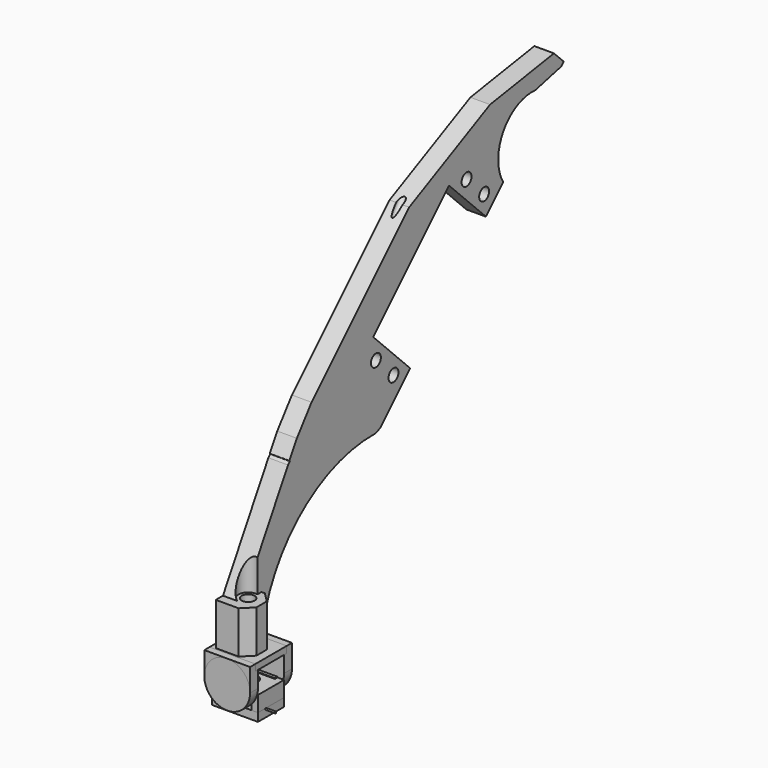
from build123d import *

# Parameters (mm, degrees)
CYLINDER002_R           = 0.25
CYLINDER002_DEPTH       = 10
CYLINDER002_PITCH_ANGLE = 90
CYLINDER001_R           = 0.25
CYLINDER001_DEPTH       = 10
CYLINDER001_PITCH_ANGLE = 90
BOX_W                   = 6.5
BOX_H                   = 4.8
BOX_DEPTH               = 1
BOX004_W                = 10
BOX004_H                = 3
BOX004_DEPTH            = 5
CYLINDER_R              = 1.5
CYLINDER_DEPTH          = 10
BOX005_W                = 21
BOX005_H                = 17
BOX005_DEPTH            = 8
CYLINDER005_R           = 2.5
CYLINDER005_DEPTH       = 10
CYLINDER004_R           = 0.25
CYLINDER004_DEPTH       = 10
CYLINDER004_PITCH_ANGLE = 90
CYLINDER003_R           = 0.25
CYLINDER003_DEPTH       = 10
CYLINDER003_PITCH_ANGLE = 90
BOX002_W                = 6.5
BOX002_H                = 4.8
BOX002_DEPTH            = 1
BOX003_W                = 10
BOX003_H                = 12
BOX003_DEPTH            = 3
BOX001_W                = 14
BOX001_H                = 10
BOX001_DEPTH            = 7.25
BOX006_W                = 21
BOX006_H                = 17
BOX006_DEPTH            = 12
CYLINDER006_R           = 7
CYLINDER006_DEPTH       = 3
CYLINDER006_ROLL_ANGLE  = 90
BOX007_W                = 14
BOX007_H                = 3
BOX007_DEPTH            = 7
BOX008_W                = 14
BOX008_H                = 3
BOX008_DEPTH            = 7
CYLINDER007_R           = 7
CYLINDER007_DEPTH       = 3
CYLINDER007_ROLL_ANGLE  = 90
BOX009_W                = 14
BOX009_H                = 12
BOX009_DEPTH            = 2
CYLINDER025_R           = 1
CYLINDER025_DEPTH       = 96
CYLINDER025_ROLL_ANGLE  = -33
CYLINDER020_R           = 2
CYLINDER020_DEPTH       = 16
CYLINDER024_R           = 3
CYLINDER024_DEPTH       = 16
CYLINDER022_R           = 3
CYLINDER022_DEPTH       = 16
BOX022_W                = 26
BOX022_H                = 23
BOX022_DEPTH            = 13
CYLINDER011_R           = 1.9
CYLINDER011_DEPTH       = 12
CYLINDER012_R           = 1.9
CYLINDER012_DEPTH       = 12
CYLINDER013_R           = 1.9
CYLINDER013_DEPTH       = 12
CYLINDER014_R           = 1.9
CYLINDER014_DEPTH       = 12
BOX010_W                = 41
BOX010_H                = 20
BOX010_DEPTH            = 12
BOX021_W                = 10
BOX021_H                = 10
BOX021_DEPTH            = 10
BOX021_PLACEMENT_ANGLE  = 8
BOX020_W                = 14
BOX020_H                = 10
BOX020_DEPTH            = 10
BOX020_PLACEMENT_ANGLE  = 16
BOX019_W                = 65
BOX019_H                = 11
BOX019_DEPTH            = 10
BOX019_PLACEMENT_ANGLE  = 15
BOX018_W                = 76
BOX018_H                = 10
BOX018_DEPTH            = 10
BOX017_W                = 49
BOX017_H                = 10
BOX017_DEPTH            = 10
BOX017_PLACEMENT_ANGLE  = -19
BOX016_W                = 53
BOX016_H                = 10
BOX016_DEPTH            = 10
BOX016_PLACEMENT_ANGLE  = -36
BOX015_W                = 13
BOX015_H                = 11
BOX015_DEPTH            = 10
BOX014_W                = 23
BOX014_H                = 17
BOX014_DEPTH            = 10
BOX013_W                = 41
BOX013_H                = 6
BOX013_DEPTH            = 10
CYLINDER016_R           = 43
CYLINDER016_DEPTH       = 10
CYLINDER015_R           = 13
CYLINDER015_DEPTH       = 10
BOX012_W                = 37
BOX012_H                = 8
BOX012_DEPTH            = 12
BOX011_W                = 184
BOX011_H                = 34
BOX011_DEPTH            = 6
CHAMFER_SIZE            = 6
CHAMFER001_SIZE         = 1
CUT025_PITCH_ANGLE      = 90
FILLET_R                = 3
FILLET001_R             = 3
CUT035_ROLL_ANGLE       = -45
BOX024_W                = 10
BOX024_H                = 10
BOX024_DEPTH            = 13
CHAMFER002_SIZE         = 3
CHAMFER003_SIZE         = 3


with BuildPart() as cylinder002:
    # Cylinder002 → Cylinder002 (new body)
    with BuildSketch(Plane.XY):
        Circle(CYLINDER002_R)
    extrude(amount=CYLINDER002_DEPTH)


with BuildPart() as cylinder002_1:
    # Cylinder002 pitch: moved
    add(cylinder002.part.rotate(Axis((0, 0, 0), (0, 1, 0)), CYLINDER002_PITCH_ANGLE))


with BuildPart() as cylinder002_2:
    # Cylinder002 placement: moved
    add(cylinder002_1.part.moved(Location((0, -2, -3.7))))


with BuildPart() as fusion002:
    # Cylinder001 → Cylinder001 (new body)
    with BuildSketch(Plane.XY):
        Circle(CYLINDER001_R)
    extrude(amount=CYLINDER001_DEPTH)


with BuildPart() as fusion002_1:
    # Cylinder001 pitch: moved
    add(fusion002.part.rotate(Axis((0, 0, 0), (0, 1, 0)), CYLINDER001_PITCH_ANGLE))


with BuildPart() as fusion002_2:
    # Cylinder001 placement: moved
    add(fusion002_1.part.moved(Location((-11, 2, -3.7))))

    # Fusion002: union Cylinder002
    add(cylinder002_2.part)


with BuildPart() as switch:
    # Box → Box (new body)
    with BuildSketch(Plane(origin=(-3.25, -2.4, -4.2), x_dir=(1, 0, 0), z_dir=(0, 0, 1))):
        with Locations((3.25, 2.4)):
            Rectangle(BOX_W, BOX_H)
    extrude(amount=BOX_DEPTH)

    # Fusion003: union Fusion002
    add(fusion002_2.part)


with BuildPart() as cube004:
    # Box004 → Box004 (new body)
    with BuildSketch(Plane(origin=(-5, 4, -3.55), x_dir=(1, 0, 0), z_dir=(0, 0, 1))):
        with Locations((5, 1.5)):
            Rectangle(BOX004_W, BOX004_H)
    extrude(amount=BOX004_DEPTH)


with BuildPart() as cylinder:
    # Cylinder → Cylinder (new body)
    with BuildSketch(Plane.XY):
        Circle(CYLINDER_R)
    extrude(amount=CYLINDER_DEPTH)


with BuildPart() as ball_and_screw:
    # Sphere → Sphere (revolve)
    with BuildSketch(Plane.XZ):
        with BuildLine():
            ThreePointArc((0, -3), (3, 0), (0, 3))
            Line((0, 3), (0, -3))
        make_face()
    revolve(axis=Axis((0, 0, 0), (0, 0, 1)))

    # Fusion005: union Cylinder
    add(cylinder.part)


with BuildPart() as ball_and_screw_1:
    # Fusion005 placement: moved
    add(ball_and_screw.part.moved(Location((0, 0, -1))))


with BuildPart() as cube005:
    # Box005 → Box005 (new body)
    with BuildSketch(Plane(origin=(-9, -7, -3.5), x_dir=(1, 0, 0), z_dir=(0, 0, 1))):
        with Locations((10.5, 8.5)):
            Rectangle(BOX005_W, BOX005_H)
    extrude(amount=BOX005_DEPTH)


with BuildPart() as cylinder005:
    # Cylinder005 → Cylinder005 (new body)
    with BuildSketch(Plane.XY.offset(0.5)):
        Circle(CYLINDER005_R)
    extrude(amount=CYLINDER005_DEPTH)


with BuildPart() as fusion004:
    # Sphere001 → Sphere001 (revolve)
    with BuildSketch(Plane.XZ):
        with BuildLine():
            ThreePointArc((0, -3.1), (3.1, 0), (0, 3.1))
            Line((0, 3.1), (0, -3.1))
        make_face()
    revolve(axis=Axis((0, 0, 0), (0, 0, 1)))

    # Fusion004: union Cylinder005
    add(cylinder005.part)


with BuildPart() as cylinder004:
    # Cylinder004 → Cylinder004 (new body)
    with BuildSketch(Plane.XY):
        Circle(CYLINDER004_R)
    extrude(amount=CYLINDER004_DEPTH)


with BuildPart() as cylinder004_1:
    # Cylinder004 pitch: moved
    add(cylinder004.part.rotate(Axis((0, 0, 0), (0, 1, 0)), CYLINDER004_PITCH_ANGLE))


with BuildPart() as cylinder004_2:
    # Cylinder004 placement: moved
    add(cylinder004_1.part.moved(Location((0, -2, -3.7))))


with BuildPart() as fusion:
    # Cylinder003 → Cylinder003 (new body)
    with BuildSketch(Plane.XY):
        Circle(CYLINDER003_R)
    extrude(amount=CYLINDER003_DEPTH)


with BuildPart() as fusion_1:
    # Cylinder003 pitch: moved
    add(fusion.part.rotate(Axis((0, 0, 0), (0, 1, 0)), CYLINDER003_PITCH_ANGLE))


with BuildPart() as fusion_2:
    # Cylinder003 placement: moved
    add(fusion_1.part.moved(Location((-11, 2, -3.7))))

    # Fusion: union Cylinder004
    add(cylinder004_2.part)


with BuildPart() as fusion001:
    # Box002 → Box002 (new body)
    with BuildSketch(Plane(origin=(-3.25, -2.4, -4.2), x_dir=(1, 0, 0), z_dir=(0, 0, 1))):
        with Locations((3.25, 2.4)):
            Rectangle(BOX002_W, BOX002_H)
    extrude(amount=BOX002_DEPTH)

    # Fusion001: union Fusion
    add(fusion_2.part)


with BuildPart() as cube003:
    # Box003 → Box003 (new body)
    with BuildSketch(Plane(origin=(-5, -6, -3.5), x_dir=(1, 0, 0), z_dir=(0, 0, 1))):
        with Locations((5, 6)):
            Rectangle(BOX003_W, BOX003_H)
    extrude(amount=BOX003_DEPTH)


with BuildPart() as cut001:
    # Box001 → Box001 (new body)
    with BuildSketch(Plane(origin=(-7, -5, -6), x_dir=(1, 0, 0), z_dir=(0, 0, 1))):
        with Locations((7, 5)):
            Rectangle(BOX001_W, BOX001_H)
    extrude(amount=BOX001_DEPTH)

    # Cut: cut Cube003
    add(cube003.part, mode=Mode.SUBTRACT)

    # Cut001: cut Fusion001
    add(fusion001.part, mode=Mode.SUBTRACT)


with BuildPart() as bottom_switch_holder:
    # Cut003 base: copy of Cut001
    add(cut001.part)

    # Cut003: cut Fusion004
    add(fusion004.part, mode=Mode.SUBTRACT)

    # Cut004: cut Cube005
    add(cube005.part, mode=Mode.SUBTRACT)


with BuildPart() as cube006:
    # Box006 → Box006 (new body)
    with BuildSketch(Plane(origin=(-9, -7, -3.5), x_dir=(1, 0, 0), z_dir=(0, 0, 1))):
        with Locations((10.5, 8.5)):
            Rectangle(BOX006_W, BOX006_H)
    extrude(amount=BOX006_DEPTH)


with BuildPart() as ball_and_screw_holder:
    # Cut002 base: copy of Cut001
    add(cut001.part)

    # Cut002: cut Fusion004
    add(fusion004.part, mode=Mode.SUBTRACT)

    # Common: intersect Cube006
    add(cube006.part, mode=Mode.INTERSECT)


with BuildPart() as cylinder006:
    # Cylinder006 → Cylinder006 (new body)
    with BuildSketch(Plane.XY):
        Circle(CYLINDER006_R)
    extrude(amount=CYLINDER006_DEPTH)


with BuildPart() as cylinder006_1:
    # Cylinder006 roll: moved
    add(cylinder006.part.rotate(Axis((0, 0, 0), (1, 0, 0)), CYLINDER006_ROLL_ANGLE))


with BuildPart() as cylinder006_2:
    # Cylinder006 placement: moved
    add(cylinder006_1.part.moved(Location((0, 8, 3))))


with BuildPart() as fusion006:
    # Box007 → Box007 (new body)
    with BuildSketch(Plane(origin=(-7, 5, 3), x_dir=(1, 0, 0), z_dir=(0, 0, 1))):
        with Locations((7, 1.5)):
            Rectangle(BOX007_W, BOX007_H)
    extrude(amount=BOX007_DEPTH)

    # Fusion006: union Cylinder006
    add(cylinder006_2.part)


with BuildPart() as cube008:
    # Box008 → Box008 (new body)
    with BuildSketch(Plane(origin=(-7, -8, 3), x_dir=(1, 0, 0), z_dir=(0, 0, 1))):
        with Locations((7, 1.5)):
            Rectangle(BOX008_W, BOX008_H)
    extrude(amount=BOX008_DEPTH)


with BuildPart() as cylinder007:
    # Cylinder007 → Cylinder007 (new body)
    with BuildSketch(Plane.XY):
        Circle(CYLINDER007_R)
    extrude(amount=CYLINDER007_DEPTH)


with BuildPart() as cylinder007_1:
    # Cylinder007 roll: moved
    add(cylinder007.part.rotate(Axis((0, 0, 0), (1, 0, 0)), CYLINDER007_ROLL_ANGLE))


with BuildPart() as cylinder007_2:
    # Cylinder007 placement: moved
    add(cylinder007_1.part.moved(Location((0, -5, 3))))


with BuildPart() as cube009:
    # Box009 → Box009 (new body)
    with BuildSketch(Plane(origin=(-7, -6, 8), x_dir=(1, 0, 0), z_dir=(0, 0, 1))):
        with Locations((7, 6)):
            Rectangle(BOX009_W, BOX009_H)
    extrude(amount=BOX009_DEPTH)


with BuildPart() as cylinder025:
    # Cylinder025 → Cylinder025 (new body)
    with BuildSketch(Plane.XY):
        Circle(CYLINDER025_R)
    extrude(amount=CYLINDER025_DEPTH)


with BuildPart() as cylinder025_1:
    # Cylinder025 roll: moved
    add(cylinder025.part.rotate(Axis((0, 0, 0), (1, 0, 0)), CYLINDER025_ROLL_ANGLE))


with BuildPart() as cylinder025_2:
    # Cylinder025 placement: moved
    add(cylinder025_1.part.moved(Location((-2.5, 14, 31))))


with BuildPart() as cylinder020:
    # Cylinder020 → Cylinder020 (new body)
    with BuildSketch(Plane.XY.offset(9)):
        Circle(CYLINDER020_R)
    extrude(amount=CYLINDER020_DEPTH)


with BuildPart() as cylinder024:
    # Cylinder024 → Cylinder024 (new body)
    with BuildSketch(Plane.XY.offset(23)):
        Circle(CYLINDER024_R)
    extrude(amount=CYLINDER024_DEPTH)


with BuildPart() as not_used_cylinder001:
    # Cylinder022 → Cylinder022 (new body)
    with BuildSketch(Plane(origin=(0, -50, 23), x_dir=(1, 0, 0), z_dir=(0, 0, 1))):
        Circle(CYLINDER022_R)
    extrude(amount=CYLINDER022_DEPTH)


with BuildPart() as cube022:
    # Box022 → Box022 (new body)
    with BuildSketch(Plane(origin=(161, 15, -3), x_dir=(1, 0, 0), z_dir=(0, 0, 1))):
        with Locations((13, 11.5)):
            Rectangle(BOX022_W, BOX022_H)
    extrude(amount=BOX022_DEPTH)


with BuildPart() as cylinder011:
    # Cylinder011 → Cylinder011 (new body)
    with BuildSketch(Plane(origin=(38, 19.5, -1), x_dir=(1, 0, 0), z_dir=(0, 0, 1))):
        Circle(CYLINDER011_R)
    extrude(amount=CYLINDER011_DEPTH)


with BuildPart() as cylinder012:
    # Cylinder012 → Cylinder012 (new body)
    with BuildSketch(Plane(origin=(38, 29, -1), x_dir=(1, 0, 0), z_dir=(0, 0, 1))):
        Circle(CYLINDER012_R)
    extrude(amount=CYLINDER012_DEPTH)


with BuildPart() as cylinder013:
    # Cylinder013 → Cylinder013 (new body)
    with BuildSketch(Plane(origin=(87, 29, -1), x_dir=(1, 0, 0), z_dir=(0, 0, 1))):
        Circle(CYLINDER013_R)
    extrude(amount=CYLINDER013_DEPTH)


with BuildPart() as cylinder014:
    # Cylinder014 → Cylinder014 (new body)
    with BuildSketch(Plane(origin=(87, 19.5, -1), x_dir=(1, 0, 0), z_dir=(0, 0, 1))):
        Circle(CYLINDER014_R)
    extrude(amount=CYLINDER014_DEPTH)


with BuildPart() as cube010:
    # Box010 → Box010 (new body)
    with BuildSketch(Plane(origin=(42, 14, -1), x_dir=(1, 0, 0), z_dir=(0, 0, 1))):
        with Locations((20.5, 10)):
            Rectangle(BOX010_W, BOX010_H)
    extrude(amount=BOX010_DEPTH)


with BuildPart() as cube021:
    # Box021 → Box021 (new body)
    with BuildSketch(Plane.XY):
        with Locations((5, 5)):
            Rectangle(BOX021_W, BOX021_H)
    extrude(amount=BOX021_DEPTH)


with BuildPart() as cube021_1:
    # Box021 placement: moved
    add(cube021.part.moved(Location((106, -7, 0))).rotate(Axis((106, -7, 0), (0, 0, 1)), BOX021_PLACEMENT_ANGLE))


with BuildPart() as cube020:
    # Box020 → Box020 (new body)
    with BuildSketch(Plane.XY):
        with Locations((7, 5)):
            Rectangle(BOX020_W, BOX020_H)
    extrude(amount=BOX020_DEPTH)


with BuildPart() as cube020_1:
    # Box020 placement: moved
    add(cube020.part.moved(Location((174, 10, 0))).rotate(Axis((174, 10, 0), (0, 0, 1)), BOX020_PLACEMENT_ANGLE))


with BuildPart() as cube019:
    # Box019 → Box019 (new body)
    with BuildSketch(Plane.XY):
        with Locations((32.5, 5.5)):
            Rectangle(BOX019_W, BOX019_H)
    extrude(amount=BOX019_DEPTH)


with BuildPart() as cube019_1:
    # Box019 placement: moved
    add(cube019.part.moved(Location((115, -7, 0))).rotate(Axis((115, -7, 0), (0, 0, 1)), BOX019_PLACEMENT_ANGLE))


with BuildPart() as cube018:
    # Box018 → Box018 (new body)
    with BuildSketch(Plane(origin=(46, -7, 0), x_dir=(1, 0, 0), z_dir=(0, 0, 1))):
        with Locations((38, 5)):
            Rectangle(BOX018_W, BOX018_H)
    extrude(amount=BOX018_DEPTH)


with BuildPart() as cube017:
    # Box017 → Box017 (new body)
    with BuildSketch(Plane.XY):
        with Locations((24.5, 5)):
            Rectangle(BOX017_W, BOX017_H)
    extrude(amount=BOX017_DEPTH)


with BuildPart() as cube017_1:
    # Box017 placement: moved
    add(cube017.part.moved(Location((16, 5, 0))).rotate(Axis((16, 5, 0), (0, 0, 1)), BOX017_PLACEMENT_ANGLE))


with BuildPart() as cube016:
    # Box016 → Box016 (new body)
    with BuildSketch(Plane.XY):
        with Locations((26.5, 5)):
            Rectangle(BOX016_W, BOX016_H)
    extrude(amount=BOX016_DEPTH)


with BuildPart() as cube016_1:
    # Box016 placement: moved
    add(cube016.part.moved(Location((-16, 28, 0))).rotate(Axis((-16, 28, 0), (0, 0, 1)), BOX016_PLACEMENT_ANGLE))


with BuildPart() as cube015:
    # Box015 → Box015 (new body)
    with BuildSketch(Plane(origin=(0, 8, 0), x_dir=(1, 0, 0), z_dir=(0, 0, 1))):
        with Locations((6.5, 5.5)):
            Rectangle(BOX015_W, BOX015_H)
    extrude(amount=BOX015_DEPTH)


with BuildPart() as cube014:
    # Box014 → Box014 (new body)
    with BuildSketch(Plane(origin=(161, 0, 0), x_dir=(1, 0, 0), z_dir=(0, 0, 1))):
        with Locations((11.5, 8.5)):
            Rectangle(BOX014_W, BOX014_H)
    extrude(amount=BOX014_DEPTH)


with BuildPart() as cube013:
    # Box013 → Box013 (new body)
    with BuildSketch(Plane(origin=(120, 0, 0), x_dir=(1, 0, 0), z_dir=(0, 0, 1))):
        with Locations((20.5, 3)):
            Rectangle(BOX013_W, BOX013_H)
    extrude(amount=BOX013_DEPTH)


with BuildPart() as cylinder016:
    # Cylinder016 → Cylinder016 (new body)
    with BuildSketch(Plane(origin=(132, 63, 0), x_dir=(1, 0, 0), z_dir=(0, 0, 1))):
        Circle(CYLINDER016_R)
    extrude(amount=CYLINDER016_DEPTH)


with BuildPart() as cylinder015:
    # Cylinder015 → Cylinder015 (new body)
    with BuildSketch(Plane(origin=(20, 37, 0), x_dir=(1, 0, 0), z_dir=(0, 0, 1))):
        Circle(CYLINDER015_R)
    extrude(amount=CYLINDER015_DEPTH)


with BuildPart() as cube012:
    # Box012 → Box012 (new body)
    with BuildSketch(Plane.XY):
        with Locations((18.5, 4)):
            Rectangle(BOX012_W, BOX012_H)
    extrude(amount=BOX012_DEPTH)


with BuildPart() as cut035:
    # Box011 → Box011 (new body)
    with BuildSketch(Plane.XY):
        with Locations((92, 17)):
            Rectangle(BOX011_W, BOX011_H)
    extrude(amount=BOX011_DEPTH)

    # Cut008: cut Cube012
    add(cube012.part, mode=Mode.SUBTRACT)

    # Cut009: cut Cylinder015
    add(cylinder015.part, mode=Mode.SUBTRACT)

    # Cut010: cut Cylinder016
    add(cylinder016.part, mode=Mode.SUBTRACT)

    # Cut011: cut Cube013
    add(cube013.part, mode=Mode.SUBTRACT)

    # Cut012: cut Cube014
    add(cube014.part, mode=Mode.SUBTRACT)

    # Cut013: cut Cube015
    add(cube015.part, mode=Mode.SUBTRACT)

    # Cut014: cut Cube016
    add(cube016_1.part, mode=Mode.SUBTRACT)

    # Cut015: cut Cube017
    add(cube017_1.part, mode=Mode.SUBTRACT)

    # Cut016: cut Cube018
    add(cube018.part, mode=Mode.SUBTRACT)

    # Cut017: cut Cube019
    add(cube019_1.part, mode=Mode.SUBTRACT)

    # Cut018: cut Cube020
    add(cube020_1.part, mode=Mode.SUBTRACT)

    # Cut019: cut Cube021
    add(cube021_1.part, mode=Mode.SUBTRACT)

    # Cut020: cut Cube010
    add(cube010.part, mode=Mode.SUBTRACT)

    # Cut021: cut Cylinder014
    add(cylinder014.part, mode=Mode.SUBTRACT)

    # Cut022: cut Cylinder013
    add(cylinder013.part, mode=Mode.SUBTRACT)

    # Cut023: cut Cylinder012
    add(cylinder012.part, mode=Mode.SUBTRACT)

    # Cut024: cut Cylinder011
    add(cylinder011.part, mode=Mode.SUBTRACT)

    # Chamfer
    chamfer_edges = [cut035.edges().sort_by_distance(p)[0] for p in [
        (7.350889, 34, 3),
    ]]
    chamfer(chamfer_edges, length=CHAMFER_SIZE)

    # Chamfer001
    chamfer001_edges = [cut035.edges().sort_by_distance(p)[0] for p in [
        (100.250984, 34, 3),
    ]]
    chamfer(chamfer001_edges, length=CHAMFER001_SIZE)

    # Cut025: cut Cube022
    add(cube022.part, mode=Mode.SUBTRACT)


with BuildPart() as cut035_1:
    # Cut025 pitch: moved
    add(cut035.part.rotate(Axis((0, 0, 0), (0, 1, 0)), CUT025_PITCH_ANGLE))


with BuildPart() as cut035_2:
    # Cut025 placement: moved
    add(cut035_1.part.moved(Location((-5.5, -24, 171))))

    # Fillet
    fillet_edges = [cut035_2.edges().sort_by_distance(p)[0] for p in [
        (-2.5, 7.250984, 10),
    ]]
    fillet(fillet_edges, radius=FILLET_R)

    # Fillet001
    fillet001_edges = [cut035_2.edges().sort_by_distance(p)[0] for p in [
        (-2.5, -7.286299, 10),
    ]]
    fillet(fillet001_edges, radius=FILLET001_R)

    # Cut035: cut Not used cylinder001
    add(not_used_cylinder001.part, mode=Mode.SUBTRACT)


with BuildPart() as cut035_3:
    # Cut035 roll: moved
    add(cut035_2.part.rotate(Axis((0, 0, 0), (1, 0, 0)), CUT035_ROLL_ANGLE))


with BuildPart() as cut035_4:
    # Cut035 placement: moved
    add(cut035_3.part.moved(Location((0, -8, 5))))


with BuildPart() as leg:
    # Box024 → Box024 (new body)
    with BuildSketch(Plane(origin=(-5.5, -5.5, 10), x_dir=(1, 0, 0), z_dir=(0, 0, 1))):
        with Locations((5, 5)):
            Rectangle(BOX024_W, BOX024_H)
    extrude(amount=BOX024_DEPTH)

    # Fusion007: union Cut035
    add(cut035_4.part)

    # Cut036: cut Cylinder024
    add(cylinder024.part, mode=Mode.SUBTRACT)

    # Cut037: cut Cylinder020
    add(cylinder020.part, mode=Mode.SUBTRACT)

    # Chamfer002
    chamfer002_edges = [leg.edges().sort_by_distance(p)[0] for p in [
        (4.5, 4.5, 16.5),
    ]]
    chamfer(chamfer002_edges, length=CHAMFER002_SIZE)

    # Chamfer003
    chamfer003_edges = [leg.edges().sort_by_distance(p)[0] for p in [
        (4.5, -5.5, 16.5),
    ]]
    chamfer(chamfer003_edges, length=CHAMFER003_SIZE)

    # Cut038: cut Cylinder025
    add(cylinder025_2.part, mode=Mode.SUBTRACT)


solid = Compound([switch.part, cube004.part, ball_and_screw_1.part, bottom_switch_holder.part, ball_and_screw_holder.part, fusion006.part, cube008.part, cylinder007_2.part, cube009.part, leg.part])
